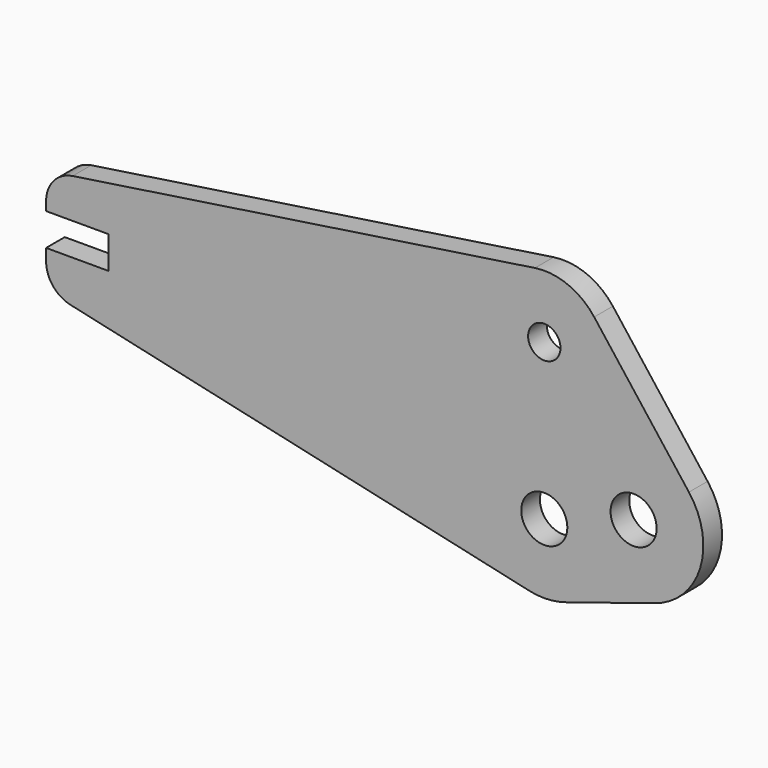
from build123d import *

# Parameters (mm, degrees)
F0_R     = 4.699
F0_R_2   = 3.302
F1_DEPTH = 4.7625


with BuildPart() as f1:
    # F0 (on Front) → F1 (new body)
    with BuildSketch(Plane.XZ):
        with BuildLine():
            Line((0, 12.7), (0, 10.292423))
            ThreePointArc((0, 10.292423), (1.394452, 6.3219), (4.965369, 4.095222))
            Line((4.965369, 4.095222), (98.498426, -16.80273))
            ThreePointArc((98.498426, -16.80273), (102.208704, -17.13197), (105.877239, -16.48667))
            Line((105.877239, -16.48667), (124.088291, -10.744747))
            ThreePointArc((124.088291, -10.744747), (133.377536, -1.453733), (131.09241, 11.484244))
            Line((131.09241, 11.484244), (111.773368, 36.641459))
            ThreePointArc((111.773368, 36.641459), (106.399109, 40.724398), (99.696147, 41.513923))
            Line((99.696147, 41.513923), (5.407499, 27.362341))
            ThreePointArc((5.407499, 27.362341), (1.538172, 25.226203), (0, 21.082676))
            Line((0, 21.082676), (0, 19.304))
            Line((0, 19.304), (12.7, 19.304))
            Line((12.7, 19.304), (12.7, 12.7))
            Line((12.7, 12.7), (0, 12.7))
        make_face()
        with Locations((101.6, -2.921)):
            Circle(F0_R, mode=Mode.SUBTRACT)
        with Locations((119.811052, 2.820923)):
            Circle(F0_R, mode=Mode.SUBTRACT)
        with Locations((101.6, 28.829)):
            Circle(F0_R_2, mode=Mode.SUBTRACT)
    extrude(amount=F1_DEPTH)


solid = f1.part
